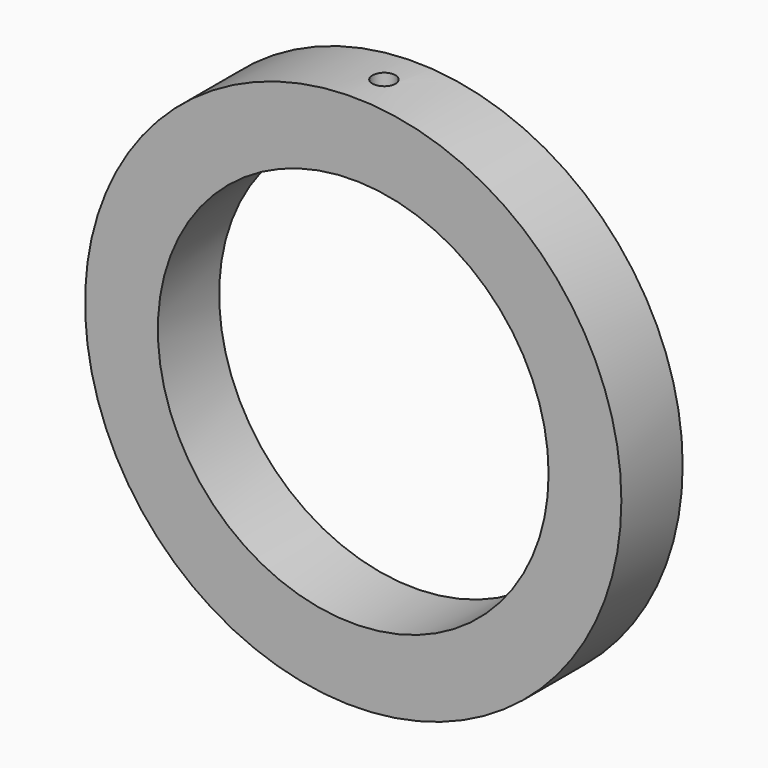
from build123d import *

# Parameters (mm, degrees)
F0_R     = 35
F1_DEPTH = 5
F2_R     = 25.5
F3_DEPTH = 5
F4_R     = 1.5
F5_DEPTH = 35


with BuildPart() as f1:
    # F0 (on Front) → F1 (new body, symmetric)
    with BuildSketch(Plane.XZ):
        Circle(F0_R)
    extrude(amount=F1_DEPTH, both=True)

    # F2 (on face) → F3 (cut, symmetric)
    with BuildSketch(Plane.XZ):
        Circle(F2_R)
    extrude(amount=F3_DEPTH, both=True, mode=Mode.SUBTRACT)

    # F4 (on Top) → F5 (cut)
    with BuildSketch(Plane.XY):
        Circle(F4_R)
    extrude(amount=F5_DEPTH, mode=Mode.SUBTRACT)


solid = f1.part
